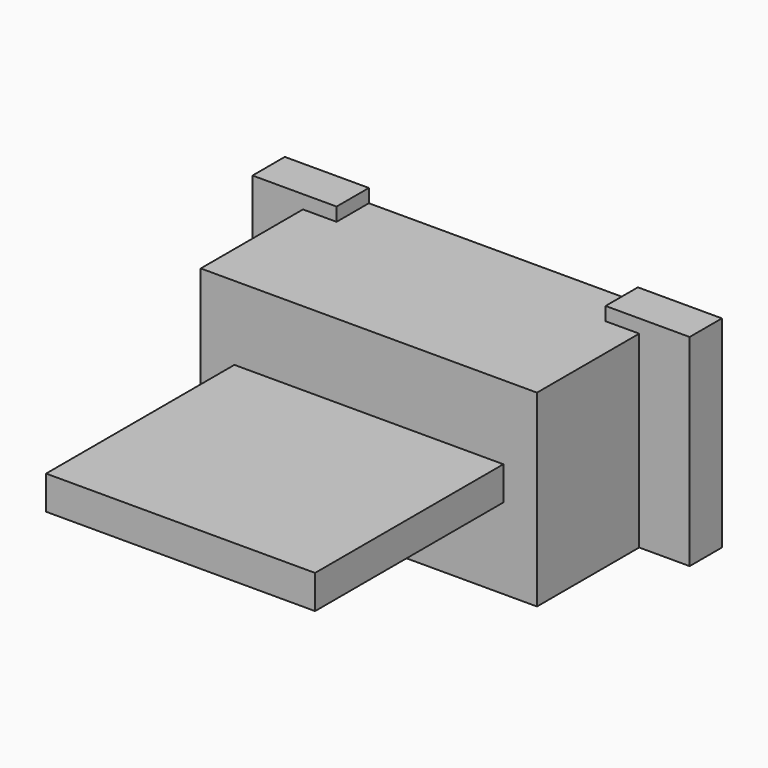
from build123d import *

# Parameters (mm, degrees)
BOX064_W     = 4
BOX064_H     = 0.6
BOX064_DEPTH = 0.2
BOX063_W     = 6.5
BOX063_H     = 0.6
BOX063_DEPTH = 3
BOX066_W     = 4
BOX066_H     = 3.5
BOX066_DEPTH = 0.5
BOX065_W     = 5
BOX065_H     = 2.5
BOX065_DEPTH = 2.8


with BuildPart() as cube:
    # Box064 → Box064 (new body)
    with BuildSketch(Plane(origin=(-2, -0.6, 2.8), x_dir=(1, 0, 0), z_dir=(0, 0, 1))):
        with Locations((2, 0.3)):
            Rectangle(BOX064_W, BOX064_H)
    extrude(amount=BOX064_DEPTH)


with BuildPart() as cut014:
    # Box063 → Box063 (new body)
    with BuildSketch(Plane(origin=(-3.25, -0.6, 0), x_dir=(1, 0, 0), z_dir=(0, 0, 1))):
        with Locations((3.25, 0.3)):
            Rectangle(BOX063_W, BOX063_H)
    extrude(amount=BOX063_DEPTH)

    # Cut014: cut Cube
    add(cube.part, mode=Mode.SUBTRACT)


with BuildPart() as box066:
    # Box066 → Box066 (new body)
    with BuildSketch(Plane(origin=(-2, -6, 1.2), x_dir=(1, 0, 0), z_dir=(0, 0, 1))):
        with Locations((2, 1.75)):
            Rectangle(BOX066_W, BOX066_H)
    extrude(amount=BOX066_DEPTH)


with BuildPart() as body:
    # Box065 → Box065 (new body)
    with BuildSketch(Plane(origin=(-2.5, -2.5, 0), x_dir=(1, 0, 0), z_dir=(0, 0, 1))):
        with Locations((2.5, 1.25)):
            Rectangle(BOX065_W, BOX065_H)
    extrude(amount=BOX065_DEPTH)

    # Fusion048: union Cut014, Box066
    add(cut014.part)
    add(box066.part)


solid = body.part
